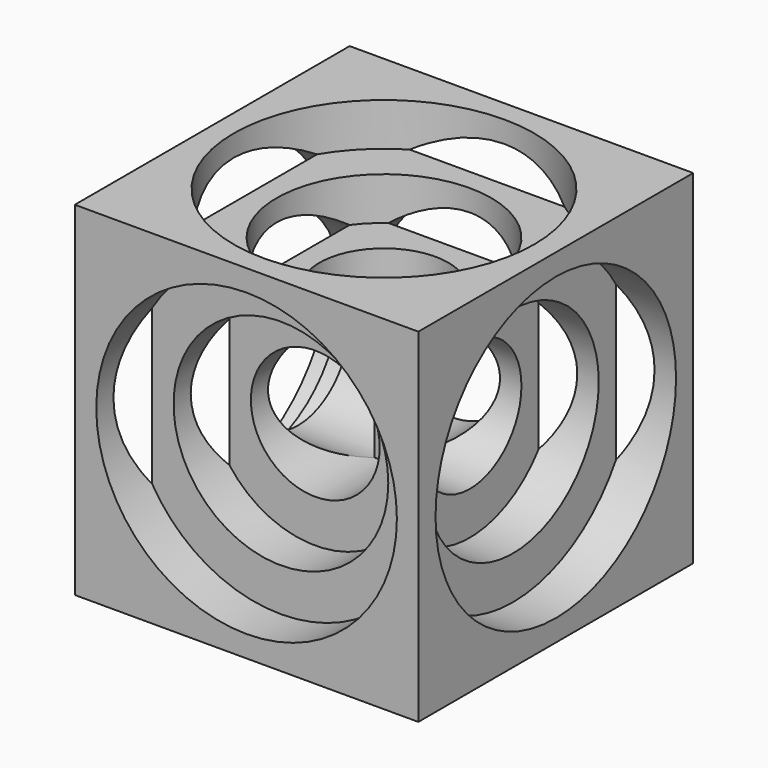
from build123d import *

# Parameters (mm, degrees)
F0_W      = 101.6
F0_H      = 101.6
F1_DEPTH  = 101.6
F2_R      = 44.45
F3_DEPTH  = 12.7
F4_R      = 31.75
F5_DEPTH  = 12.7
F6_R      = 19.05
F7_DEPTH  = 23.8125
F8_R      = 44.45
F8_R_2    = 31.75
F8_R_3    = 19.05
F9_DEPTH  = 12.7
F10_DEPTH = 25.4
F11_DEPTH = 49.2252
F12_R     = 19.05
F15_DEPTH = 49.2252
F13_R     = 19.05
F16_DEPTH = 49.2252
F13_R_2   = 31.75
F17_DEPTH = 25.4
F13_R_3   = 44.45
F18_DEPTH = 12.7
F14_R     = 19.05
F19_DEPTH = 49.1998
F14_R_2   = 31.75
F20_DEPTH = 25.4
F14_R_3   = 44.45
F21_DEPTH = 12.7
F12_R_2   = 31.75
F22_DEPTH = 25.4
F12_R_3   = 44.45
F23_DEPTH = 12.7


with BuildPart() as f1:
    # F0 (on Front) → F1 (new body)
    with BuildSketch(Plane.XZ):
        with Locations((-50.849611, 50.678841)):
            Rectangle(F0_W, F0_H)
    extrude(amount=F1_DEPTH)

    # F2 (on face) → F3 (cut)
    with BuildSketch(Plane.XZ.offset(101.6)):
        with Locations((-50.849611, 50.678841)):
            Circle(F2_R)
    extrude(amount=-F3_DEPTH, mode=Mode.SUBTRACT)

    # F4 (on face) → F5 (cut)
    with BuildSketch(Plane.XZ.offset(88.9)):
        with Locations((-50.849611, 50.678841)):
            Circle(F4_R)
    extrude(amount=-F5_DEPTH, mode=Mode.SUBTRACT)

    # F6 (on face) → F7 (cut)
    with BuildSketch(Plane.XZ.offset(76.2)):
        with Locations((-50.849611, 50.678841)):
            Circle(F6_R)
    extrude(amount=-F7_DEPTH, mode=Mode.SUBTRACT)

    # F8 (on face) → F9 (cut)
    with BuildSketch(Plane.XY.offset(101.478841)):
        with Locations((-50.849611, -50.8)):
            Circle(F8_R)
        with Locations((-50.849611, -50.8)):
            Circle(F8_R_2, mode=Mode.SUBTRACT)
        with Locations((-50.849611, -50.8)):
            Circle(F8_R_2)
        with Locations((-50.849611, -50.8)):
            Circle(F8_R_3, mode=Mode.SUBTRACT)
        with Locations((-50.849611, -50.8)):
            Circle(F8_R_3)
    extrude(amount=-F9_DEPTH, mode=Mode.SUBTRACT)

    # F8 (on face) → F10 (cut)
    with BuildSketch(Plane.XY.offset(101.478841)):
        with Locations((-50.849611, -50.8)):
            Circle(F8_R_2)
        with Locations((-50.849611, -50.8)):
            Circle(F8_R_3, mode=Mode.SUBTRACT)
        with Locations((-50.849611, -50.8)):
            Circle(F8_R_3)
    extrude(amount=-F10_DEPTH, mode=Mode.SUBTRACT)

    # F8 (on face) → F11 (cut)
    with BuildSketch(Plane.XY.offset(101.478841)):
        with Locations((-50.849611, -50.8)):
            Circle(F8_R_3)
    extrude(amount=-F11_DEPTH, mode=Mode.SUBTRACT)

    # F12 (on face) → F15 (cut)
    with BuildSketch(Plane.YZ.offset(-0.049611)):
        with Locations((-50.8, 50.678841)):
            Circle(F12_R)
    extrude(amount=-F15_DEPTH, mode=Mode.SUBTRACT)

    # F13 (on face) → F16 (cut)
    with BuildSketch(Plane(origin=(0, 0, 0), x_dir=(-1, 0, 0), z_dir=(0, 1, 0))):
        with Locations((50.849611, 50.678841)):
            Circle(F13_R)
    extrude(amount=-F16_DEPTH, mode=Mode.SUBTRACT)

    # F13 (on face) → F17 (cut)
    with BuildSketch(Plane(origin=(0, 0, 0), x_dir=(-1, 0, 0), z_dir=(0, 1, 0))):
        with Locations((50.849611, 50.678841)):
            Circle(F13_R_2)
        with Locations((50.849611, 50.678841)):
            Circle(F13_R, mode=Mode.SUBTRACT)
    extrude(amount=-F17_DEPTH, mode=Mode.SUBTRACT)

    # F13 (on face) → F18 (cut)
    with BuildSketch(Plane(origin=(0, 0, 0), x_dir=(-1, 0, 0), z_dir=(0, 1, 0))):
        with Locations((50.849611, 50.678841)):
            Circle(F13_R_3)
        with Locations((50.849611, 50.678841)):
            Circle(F13_R_2, mode=Mode.SUBTRACT)
    extrude(amount=-F18_DEPTH, mode=Mode.SUBTRACT)

    # F14 (on face) → F19 (cut)
    with BuildSketch(Plane(origin=(-101.649611, 0, 0), x_dir=(0, -1, 0), z_dir=(-1, 0, 0))):
        with Locations((50.8, 50.678841)):
            Circle(F14_R)
    extrude(amount=-F19_DEPTH, mode=Mode.SUBTRACT)

    # F14 (on face) → F20 (cut)
    with BuildSketch(Plane(origin=(-101.649611, 0, 0), x_dir=(0, -1, 0), z_dir=(-1, 0, 0))):
        with Locations((50.8, 50.678841)):
            Circle(F14_R_2)
        with Locations((50.8, 50.678841)):
            Circle(F14_R, mode=Mode.SUBTRACT)
    extrude(amount=-F20_DEPTH, mode=Mode.SUBTRACT)

    # F14 (on face) → F21 (cut)
    with BuildSketch(Plane(origin=(-101.649611, 0, 0), x_dir=(0, -1, 0), z_dir=(-1, 0, 0))):
        with Locations((50.8, 50.678841)):
            Circle(F14_R_3)
        with Locations((50.8, 50.678841)):
            Circle(F14_R_2, mode=Mode.SUBTRACT)
    extrude(amount=-F21_DEPTH, mode=Mode.SUBTRACT)

    # F12 (on face) → F22 (cut)
    with BuildSketch(Plane.YZ.offset(-0.049611)):
        with Locations((-50.8, 50.678841)):
            Circle(F12_R_2)
        with Locations((-50.8, 50.678841)):
            Circle(F12_R, mode=Mode.SUBTRACT)
    extrude(amount=-F22_DEPTH, mode=Mode.SUBTRACT)

    # F12 (on face) → F23 (cut)
    with BuildSketch(Plane.YZ.offset(-0.049611)):
        with Locations((-50.8, 50.678841)):
            Circle(F12_R_3)
        with Locations((-50.8, 50.678841)):
            Circle(F12_R_2, mode=Mode.SUBTRACT)
    extrude(amount=-F23_DEPTH, mode=Mode.SUBTRACT)


solid = f1.part
